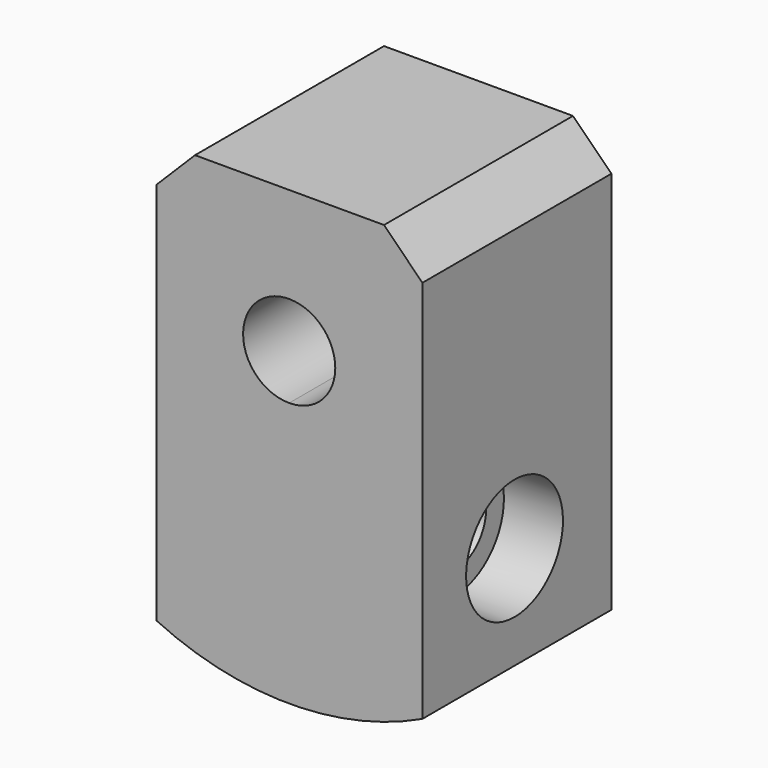
from build123d import *

# Parameters (mm, degrees)
COPYSKETCH018_W             = 6.8
COPYSKETCH018_H             = 3.7
CYLINDER069_R               = 3.1
CYLINDER069_DEPTH           = 44
CYLINDER069_ROLL_ANGLE      = -89.999777
CYLINDER069_PITCH_ANGLE     = -2.5e-05
CYLINDER069_PLACEMENT_ANGLE = 7.5e-05
SKETCH022_R                 = 3.1
PAD022_DEPTH                = 16


with BuildPart() as obj1:
    # CopySketch018 → Revolution004 (revolve)
    with BuildSketch(Plane.YZ):
        with Locations((-5.899207, -4.35)):
            Rectangle(COPYSKETCH018_W, COPYSKETCH018_H)
    revolve(axis=Axis((0, 0, 0), (0, 1, 0)))


with BuildPart() as obj1_1:
    # Body032 placement: moved
    add(obj1.part.moved(Location((0, -4.4, 0))))


with BuildPart() as bohrung_durch_innen:
    # Cylinder069 → Cylinder069 (new body)
    with BuildSketch(Plane.XY):
        Circle(CYLINDER069_R)
    extrude(amount=CYLINDER069_DEPTH)


with BuildPart() as bohrung_durch_innen_1:
    # Cylinder069 roll: moved
    add(bohrung_durch_innen.part.rotate(Axis((0, 0, 0), (1, 0, 0)), CYLINDER069_ROLL_ANGLE))


with BuildPart() as bohrung_durch_innen_2:
    # Cylinder069 pitch: moved
    add(bohrung_durch_innen_1.part.rotate(Axis((0, 0, 0), (0, 1, 0)), CYLINDER069_PITCH_ANGLE))


with BuildPart() as bohrung_durch_innen_3:
    # Cylinder069 placement: moved
    add(bohrung_durch_innen_2.part.moved(Location((-0.041441, -44.040796, -8.4e-05))).rotate(Axis((-0.041441, -44.040796, -8.4e-05), (0, 0, 1)), CYLINDER069_PLACEMENT_ANGLE))


with BuildPart() as obj2:
    # Sketch023 → Revolution (revolve)
    with BuildSketch(Plane.XZ):
        Polygon((-12.204835, 0), (-12.204835, -4.1), (-5, -4.1), (-5, -2.6), (5, -2.6), (5, -4.1), (12.102632, -4.1), (12.102632, 0), align=None)
    revolve(axis=Axis((0, 0, 0), (1, 0, 0)))


with BuildPart() as obj2_1:
    # Body033 placement: moved
    add(obj2.part.moved(Location((0, -17.1, -12))))


with BuildPart() as cut064:
    # Sketch022 → Pad022 (new body)
    with BuildSketch(Plane.XZ):
        with BuildLine():
            Line((-9, 7), (-6.4, 9.6))
            Line((-6.4, 9.6), (6.4, 9.6))
            Line((6.4, 9.6), (9, 7))
            Line((9, 7), (9, -19))
            ThreePointArc((-9, -19), (0, -21.023796), (9, -19))
            Line((-9, -19), (-9, 7))
        make_face()
        Circle(SKETCH022_R, mode=Mode.SUBTRACT)
    extrude(amount=PAD022_DEPTH)


with BuildPart() as cut064_1:
    # Body031 placement: moved
    add(cut064.part.moved(Location((0, -8.9, 0))))

    # Cut062: cut obj2
    add(obj2_1.part, mode=Mode.SUBTRACT)

    # Cut063: cut bohrung-durch-innen
    add(bohrung_durch_innen_3.part, mode=Mode.SUBTRACT)

    # Cut064: cut obj1
    add(obj1_1.part, mode=Mode.SUBTRACT)


solid = cut064_1.part
